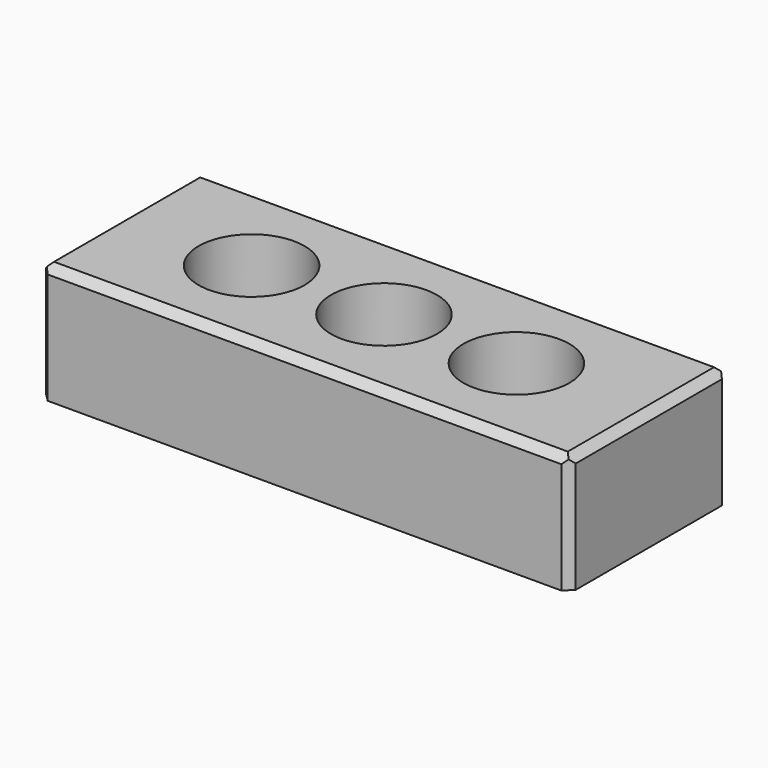
from build123d import *

# Parameters (mm, degrees)
SKETCH_W        = 200
SKETCH_H        = 75
SKETCH_R        = 20
PAD_DEPTH       = 45
CHAMFER_SIZE    = 3
CHAMFER001_SIZE = 3


with BuildPart() as part:
    # Sketch → Pad (new body)
    with BuildSketch(Plane.XY):
        Rectangle(SKETCH_W, SKETCH_H)
        Circle(SKETCH_R, mode=Mode.SUBTRACT)
        with Locations((-50, 0)):
            Circle(SKETCH_R, mode=Mode.SUBTRACT)
        with Locations((50, 0)):
            Circle(SKETCH_R, mode=Mode.SUBTRACT)
    extrude(amount=PAD_DEPTH)

    # Chamfer
    chamfer_edges = [part.edges().sort_by_distance(p)[0] for p in [
        (100, 0, 45),
        (0, 37.5, 45),
        (-100, 0, 45),
        (0, -37.5, 45),
    ]]
    chamfer(chamfer_edges, length=CHAMFER_SIZE)

    # Chamfer001
    chamfer001_edges = [part.edges().sort_by_distance(p)[0] for p in [
        (100, 37.5, 21),
        (100, -37.5, 21),
        (-100, -37.5, 21),
        (-100, 37.5, 21),
    ]]
    chamfer(chamfer001_edges, length=CHAMFER001_SIZE)


solid = part.part
